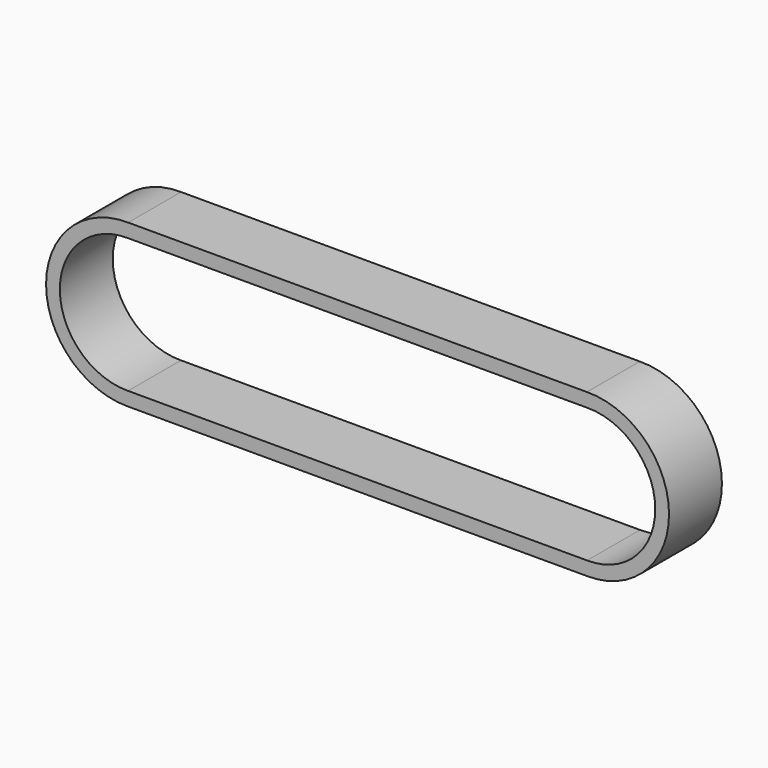
from build123d import *

# Parameters (mm, degrees)
F1_DEPTH = 9


with BuildPart() as f1:
    # F0 (on Front) → F1 (new body)
    with BuildSketch(Plane.XZ):
        with BuildLine():
            ThreePointArc((31.333461, -11.025016), (42.388194, 0.059319), (31.214828, 11.024057))
            Line((31.214828, 11.024057), (0, 11.024057))
            Line((0, 11.024057), (-31.214828, 11.024057))
            ThreePointArc((-31.214828, 11.024057), (-42.388194, 0.059319), (-31.333461, -11.025016))
            Line((-31.333461, -11.025016), (0, -11.025016))
            Line((0, -11.025016), (31.333461, -11.025016))
        make_face()
        with BuildLine():
            ThreePointArc((31.231488, 9.149051), (40.513297, 0.002619), (31.236725, -9.149125))
            Line((31.236725, -9.149125), (0, -9.149125))
            Line((0, -9.149125), (-31.236725, -9.149125))
            ThreePointArc((-31.236725, -9.149125), (-40.513297, 0.002619), (-31.231488, 9.149051))
            Line((-31.231488, 9.149051), (0, 9.149051))
            Line((0, 9.149051), (31.231488, 9.149051))
        make_face(mode=Mode.SUBTRACT)
    extrude(amount=F1_DEPTH)


solid = f1.part
